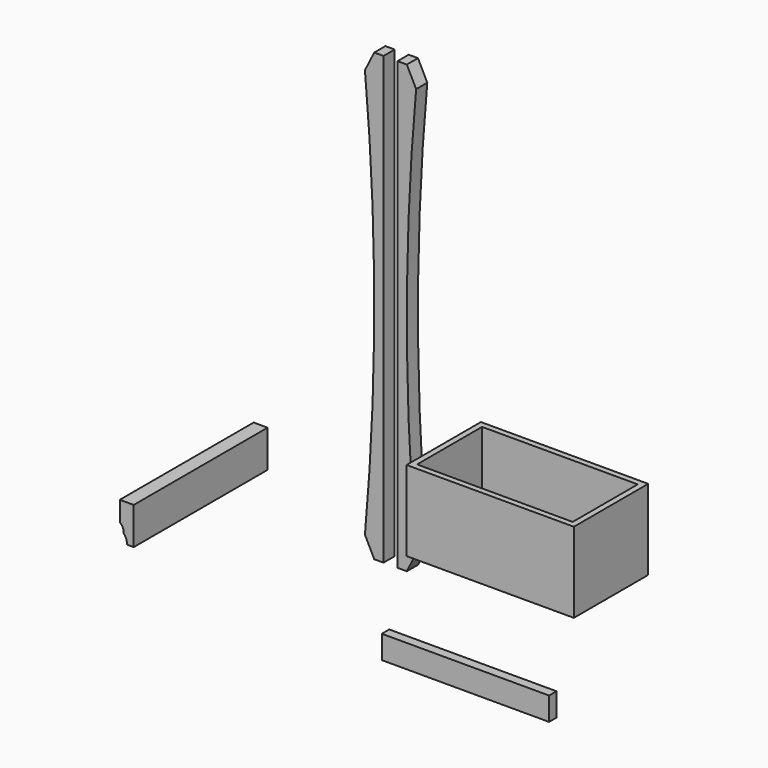
from build123d import *

# Parameters (mm, degrees)
F1_DEPTH = 38.1
F3_W     = 457.2
F3_H     = 63.5
F4_DEPTH = 25.4
F6_DEPTH = 457.2
F7_W     = 457.2
F7_H     = 219.317734
F8_DEPTH = 254
F9_T     = -15.875


with BuildPart() as f1:
    # F0 (on Front) → F1 (new body)
    with BuildSketch(Plane.XZ):
        with BuildLine():
            Line((-19.14165, 1124.412804), (-44.54165, 1124.412804))
            Line((-44.54165, 1124.412804), (-69.94165, 1073.612804))
            ThreePointArc((-69.94165, 1073.612804), (-44.54165, 514.812804), (-69.94165, -43.987196))
            add(Edge.make_bspline(
                [(-44.54165, -94.787196), (-53.008317, -77.853863), (-61.474984, -60.92053), (-69.94165, -43.987196)],
                knots=[0, 0, 0, 0, 56.796127, 56.796127, 56.796127, 56.796127], degree=3))
            Line((-44.54165, -94.787196), (-19.14165, -94.787196))
            Line((-19.14165, -94.787196), (-19.14165, 1124.412804))
        make_face()
    extrude(amount=F1_DEPTH)


with BuildPart() as f2_1:
    # F2: instance of F1
    add(f1.part.mirror(Plane.YZ))


with BuildPart() as f4:
    # F3 (on face) → F4 (new body)
    with BuildSketch(Plane.XZ.offset(38.1)):
        with Locations((224.988334, -282.101117)):
            Rectangle(F3_W, F3_H)
    extrude(amount=F4_DEPTH)


with BuildPart() as f6:
    # F5 (on Front) → F6 (new body)
    with BuildSketch(Plane.XZ):
        with BuildLine():
            Line((-366.544515, 101.6), (-404.644515, 101.6))
            Line((-404.644515, 101.6), (-404.644515, 46.607811))
            ThreePointArc((-404.644515, 46.607811), (-396.271765, 37.349523), (-394.815819, 24.951981))
            ThreePointArc((-394.815819, 24.951981), (-387.258526, 13.564957), (-385.594515, 0))
            Line((-385.594515, 0), (-366.544515, 0))
            Line((-366.544515, 0), (-366.544515, 101.6))
        make_face()
    extrude(amount=F6_DEPTH)


with BuildPart() as f8:
    # F7 (on Front) → F8 (new body)
    with BuildSketch(Plane.XZ):
        with Locations((445.133593, 195.132071)):
            Rectangle(F7_W, F7_H)
    extrude(amount=F8_DEPTH)

    # F9
    f9_openings = [f8.faces().sort_by_distance(p)[0] for p in [
        (445.133593, -127, 304.790938),
    ]]
    offset(amount=F9_T, openings=f9_openings)


solid = Compound([f1.part, f2_1.part, f4.part, f6.part, f8.part])
